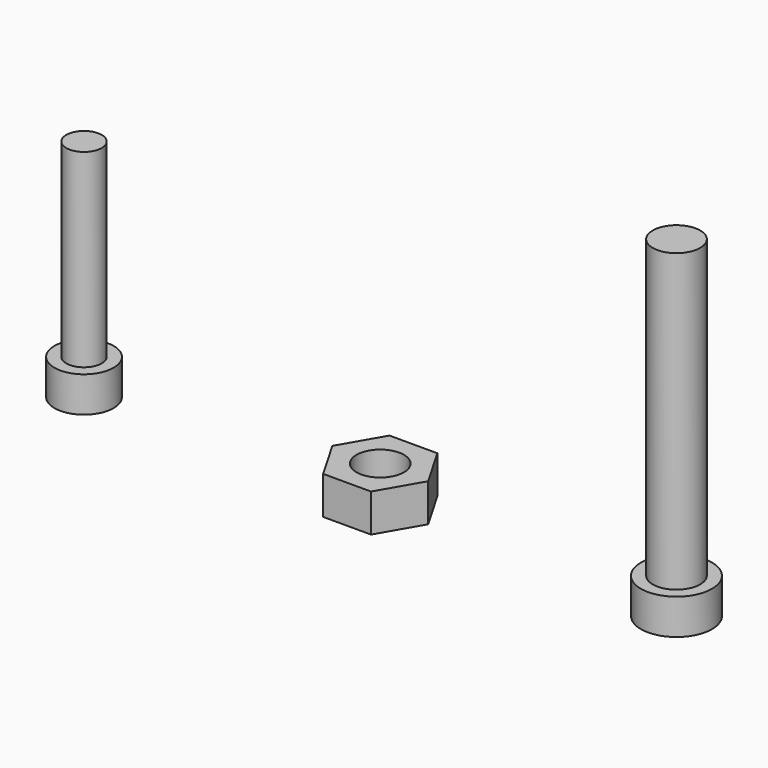
from build123d import *

# Parameters (mm, degrees)
F0_R     = 2.5
F1_DEPTH = 3
F0_R_2   = 3
F2_DEPTH = 3
F3_R     = 1.5
F4_DEPTH = 16
F5_R     = 2
F6_DEPTH = 25
F7_R     = 2
F8_DEPTH = 3.2


with BuildPart() as f1:
    # F0 (on Top) → F1 (new body)
    with BuildSketch(Plane.XY):
        with Locations((-25, 0)):
            Circle(F0_R)
    extrude(amount=F1_DEPTH)

    # F3 (on face) → F4 (join)
    with BuildSketch(Plane.XY.offset(3)):
        with Locations((-25, 0)):
            Circle(F3_R)
    extrude(amount=F4_DEPTH)


with BuildPart() as f2:
    # F0 (on Top) → F2 (new body)
    with BuildSketch(Plane.XY):
        with Locations((25, 0)):
            Circle(F0_R_2)
    extrude(amount=F2_DEPTH)

    # F5 (on face) → F6 (join)
    with BuildSketch(Plane.XY.offset(3)):
        with Locations((25, 0)):
            Circle(F5_R)
    extrude(amount=F6_DEPTH)


with BuildPart() as f8:
    # F7 (on Top) → F8 (new body)
    with BuildSketch(Plane.XY):
        Polygon((2.020726, 3.5), (-2.020726, 3.5), (-4.041452, 0), (-2.020726, -3.5), (2.020726, -3.5), (4.041452, 0), align=None)
        Circle(F7_R, mode=Mode.SUBTRACT)
    extrude(amount=F8_DEPTH)


solid = Compound([f1.part, f2.part, f8.part])
